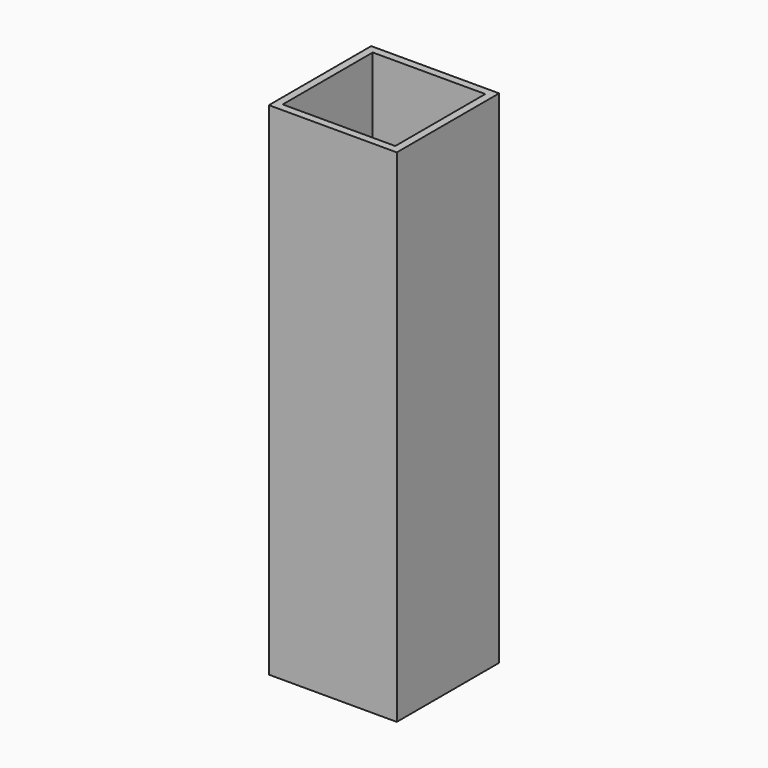
from build123d import *

# Parameters (mm, degrees)
F0_W     = 50
F0_H     = 50
F0_W_2   = 44
F0_H_2   = 44
F2_DEPTH = 196


with BuildPart() as f2:
    # F0 (on Top) → F2 (new body, through all)
    with BuildSketch(Plane.XY):
        Rectangle(F0_W, F0_H)
        Rectangle(F0_W_2, F0_H_2, mode=Mode.SUBTRACT)
    extrude(amount=F2_DEPTH)


solid = f2.part
